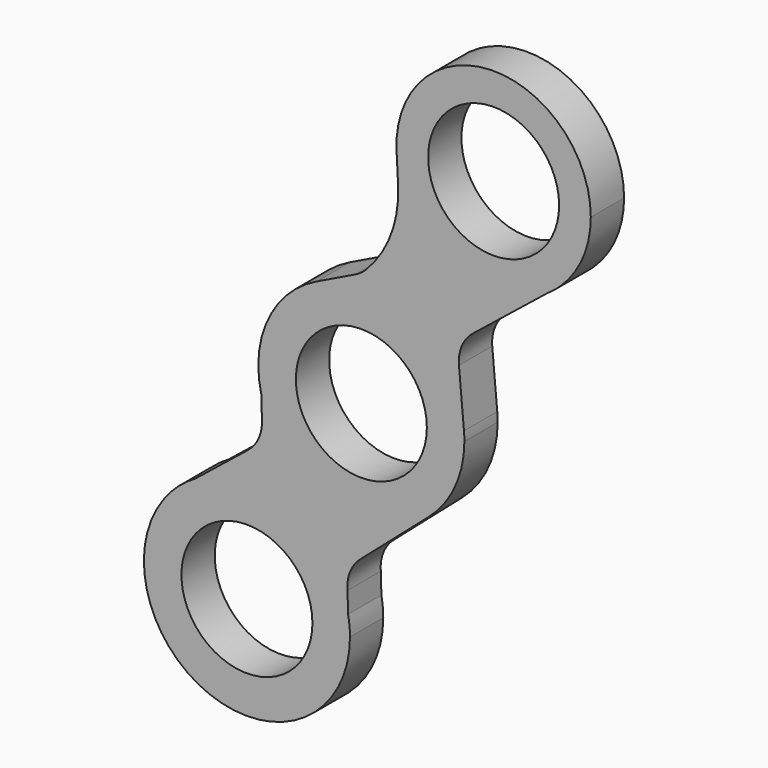
from build123d import *

# Parameters (mm, degrees)
F0_R     = 11.079999938
F1_DEPTH = 7.04


with BuildPart() as f1:
    # F0 (on Front) → F1 (new body)
    with BuildSketch(Plane.XZ):
        with BuildLine():
            ThreePointArc((-28.8090031659, 22.2696470138), (-24.3900840083, 28.1937049584), (-22.8232076674, 35.4163227376))
            ThreePointArc((-22.8232076674, 35.4163227376), (-22.8405604112, 36.1938930103), (-22.8925840909, 36.9699150355))
            ThreePointArc((-22.8925840909, 36.9699150355), (-31.6310611427, 50.5643750287), (-47.7816925034, 51.1365903237))
            ThreePointArc((-47.7816925034, 51.1365903237), (-56.0085206864, 42.8711874283), (-57.1825180023, 31.2686309308))
            ThreePointArc((-57.1825180023, 31.2686309308), (-45.5226501495, 18.8019352041), (-28.8090031659, 22.2696470138))
        make_face()
        with Locations((-40.2532076054, 35.4163227376)):
            Circle(F0_R, mode=Mode.SUBTRACT)
        with BuildLine():
            ThreePointArc((-47.7816925034, 51.1365903237), (-31.6310611427, 50.5643750287), (-22.8925840909, 36.9699150355))
            Line((-22.8925840909, 36.9699150355), (-23.7404485644, 46.4443800767))
            ThreePointArc((-23.7404485644, 46.4443800767), (-23.2576465121, 49.4992381724), (-21.3890303605, 51.963691354))
            Line((-21.3890303605, 51.963691354), (-8.7265202555, 62.1209370132))
            ThreePointArc((-8.7265202555, 62.1209370132), (-25.2452652126, 61.0838938149), (-34.2931167989, 74.9432146938))
            Line((-34.2931167989, 74.9432146938), (-34.0369961774, 69.9059709762))
            ThreePointArc((-34.0369961774, 69.9059709762), (-35.2629924551, 62.1501768677), (-39.5130267128, 55.5477062744))
            ThreePointArc((-39.5130267128, 55.5477062744), (-40.3333403908, 54.8479164985), (-41.2602253247, 54.297004001))
            Line((-41.2602253247, 54.297004001), (-47.7816925034, 51.1365903237))
        make_face()
        with BuildLine():
            Line((-40.245373005, 12.314266868), (-28.8090031659, 22.2696470138))
            ThreePointArc((-28.8090031659, 22.2696470138), (-45.5226501495, 18.8019352041), (-57.1825180023, 31.2686309308))
            Line((-57.1825180023, 31.2686309308), (-57.0764976956, 27.7535374878))
            ThreePointArc((-57.0764976956, 27.7535374878), (-57.5592997479, 24.6986793921), (-59.4279158995, 22.2342262105))
            Line((-59.4279158995, 22.2342262105), (-68.3381404853, 15.0868802857))
            ThreePointArc((-68.3381404853, 15.0868802857), (-52.3672326621, 15.8542087629), (-42.4907709022, 3.2798621477))
            Line((-42.4907709022, 3.2798621477), (-42.5967912088, 6.7949555907))
            ThreePointArc((-42.5967912088, 6.7949555907), (-42.1139891566, 9.8498136864), (-40.245373005, 12.314266868))
        make_face()
        with BuildLine():
            Line((-6.5290846743, 63.8836122516), (-8.7265202555, 62.1209370132))
            ThreePointArc((-8.7265202555, 62.1209370132), (-7.5899744525, 62.955116416), (-6.5290846743, 63.8836122516))
        make_face()
        with BuildLine():
            ThreePointArc((-34.2931167989, 74.9432146938), (-25.2452652126, 61.0838938149), (-8.7265202555, 62.1209370132))
            Line((-8.7265202555, 62.1209370132), (-6.5290846743, 63.8836122516))
            ThreePointArc((-6.5290846743, 63.8836122516), (-2.7637901739, 69.3087740166), (-1.4373358773, 75.777958034))
            ThreePointArc((-1.4373358773, 75.777958034), (-18.2933365525, 92.2111495713), (-34.2931167989, 74.9432146938))
        make_face()
        with Locations((-17.8758302018, 75.777958034)):
            Circle(F0_R, mode=Mode.SUBTRACT)
        with BuildLine():
            ThreePointArc((-42.1793983078, 0), (-42.2574160625, 1.6473045105), (-42.4907709022, 3.2798621477))
            ThreePointArc((-42.4907709022, 3.2798621477), (-52.3672326621, 15.8542087629), (-68.3381404853, 15.0868802857))
            Line((-68.3381404853, 15.0868802857), (-72.4431903423, 11.7940102706))
            ThreePointArc((-72.4431903423, 11.7940102706), (-65.9383753509, -16.2403493387), (-42.1793983078, 0))
        make_face()
        with Locations((-59.6093982458, 0)):
            Circle(F0_R, mode=Mode.SUBTRACT)
        with BuildLine():
            Line((-72.4431903423, 11.7940102706), (-68.3381404853, 15.0868802857))
            ThreePointArc((-68.3381404853, 15.0868802857), (-70.5156565401, 13.5962652172), (-72.4431903423, 11.7940102706))
        make_face()
    extrude(amount=F1_DEPTH)


solid = f1.part
